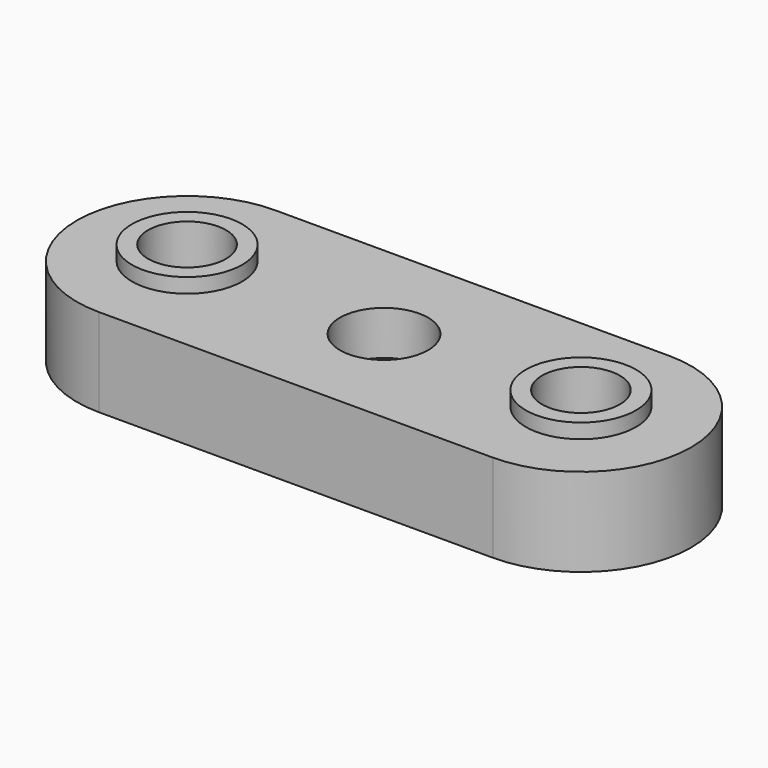
from build123d import *

# Parameters (mm, degrees)
SKETCH009_R     = 2.65
SKETCH009_R_2   = 1.75
PAD003_DEPTH    = 6
SKETCH010_R     = 3.75
SKETCH010_R_2   = 2.65
PAD004_DEPTH    = 1
SKETCH011_R     = 3
POCKET006_DEPTH = 3


with BuildPart() as part:
    # Sketch009 (on Face6 of Binder) → Pad003 (new body)
    with BuildSketch(Plane.XY.offset(6)):
        with BuildLine():
            ThreePointArc((-13.4, 40.65), (-20.9, 33.15), (-13.4, 25.65))
            Line((-13.4, 25.65), (13.400012, 25.65))
            ThreePointArc((13.400012, 25.65), (20.9, 33.15), (13.400012, 40.65))
            Line((-13.4, 40.65), (13.400012, 40.65))
        make_face()
        with Locations((-13.4, 33.15)):
            Circle(SKETCH009_R, mode=Mode.SUBTRACT)
        with Locations((13.4, 33.15)):
            Circle(SKETCH009_R, mode=Mode.SUBTRACT)
        with Locations((0, 33.15)):
            Circle(SKETCH009_R_2, mode=Mode.SUBTRACT)
    extrude(amount=PAD003_DEPTH)

    # Sketch010 (on Face9 of Pad003) → Pad004 (join)
    with BuildSketch(Plane.XY.offset(12)):
        with Locations((-13.4, 33.15)):
            Circle(SKETCH010_R)
        with Locations((-13.4, 33.15)):
            Circle(SKETCH010_R_2, mode=Mode.SUBTRACT)
        with Locations((13.4, 33.15)):
            Circle(SKETCH010_R)
        with Locations((13.4, 33.15)):
            Circle(SKETCH010_R_2, mode=Mode.SUBTRACT)
    extrude(amount=PAD004_DEPTH)

    # Sketch011 (on Face5 of Pad004) → Pocket006 (cut)
    with BuildSketch(Plane.XY.offset(12)):
        with Locations((0, 33.15)):
            Circle(SKETCH011_R)
    extrude(amount=-POCKET006_DEPTH, mode=Mode.SUBTRACT)


solid = part.part
